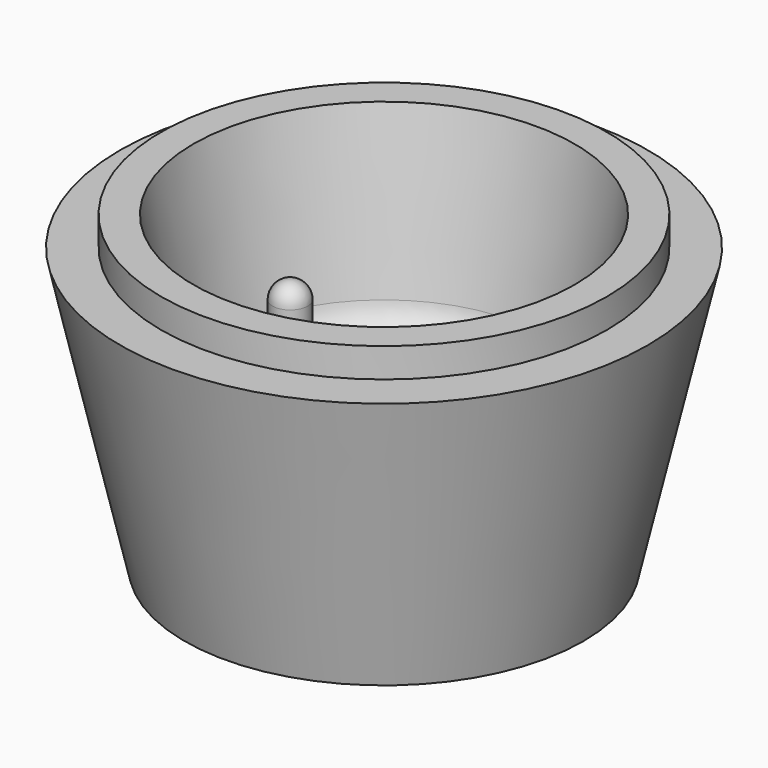
from build123d import *

# Parameters (mm, degrees)
F2_R     = 19
F3_DEPTH = 2.5
F6_R     = 3
F7_R     = 1.5
F8_DEPTH = 8.5
F9_R     = 1.5


with BuildPart() as f1:
    # F0 (on Front) → F1 (revolve)
    with BuildSketch(Plane.XZ):
        Polygon((0, 24), (0, 0), (17, 0), (22.5, 24), align=None)
    revolve(axis=Axis((0, 0, 12), (0, 0, 1)))

    # F2 (on face) → F3 (join)
    with BuildSketch(Plane.XY.offset(24)):
        Circle(F2_R)
    extrude(amount=F3_DEPTH)

    # F4 (on Front) → F5 (revolve, cut)
    with BuildSketch(Plane.XZ):
        Polygon((16.25, 26.5), (0, 26.5), (0, 10.5), (13.25, 10.5), align=None)
    revolve(axis=Axis((0, 0, 18.5), (0, 0, -1)), mode=Mode.SUBTRACT)

    # F6
    f6_edges = [f1.edges().sort_by_distance(p)[0] for p in [
        (-13.25, 0, 10.5),
    ]]
    fillet(f6_edges, radius=F6_R)

    # F7 (on face) → F8 (join)
    with BuildSketch(Plane.XY.offset(10.5)):
        with Locations((-8, 0)):
            Circle(F7_R)
        with Locations((6, 0)):
            Circle(F7_R)
    extrude(amount=F8_DEPTH)

    # F9
    f9_edges = [f1.edges().sort_by_distance(p)[0] for p in [
        (-9.5, 0, 19),
        (4.5, 0, 19),
    ]]
    fillet(f9_edges, radius=F9_R)


solid = f1.part
